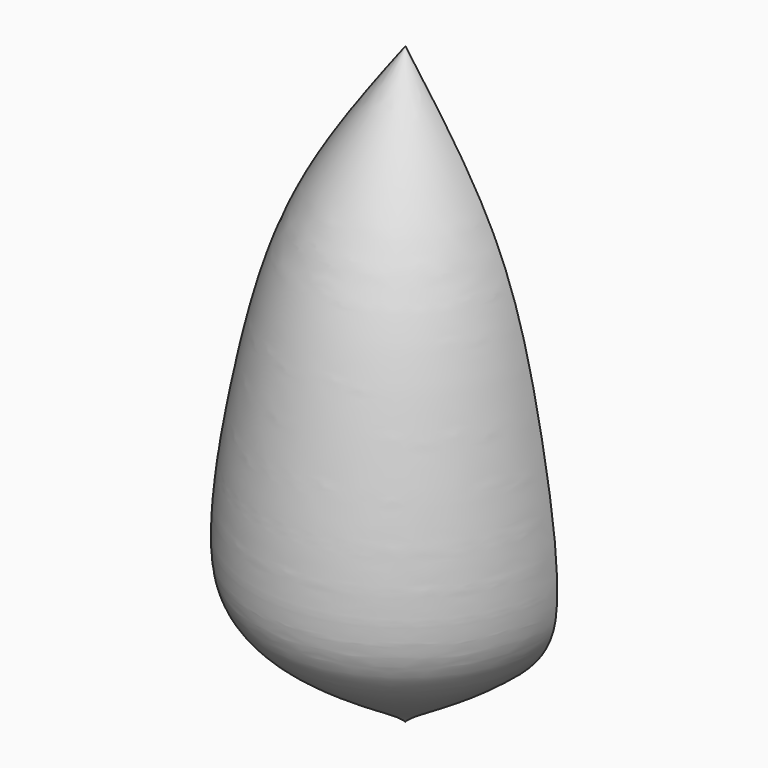
from build123d import *

# Parameters (mm, degrees)
F1_ANGLE = 180


with BuildPart() as f1:
    # F0 (on Front) → F1 (revolve)
    with BuildSketch(Plane.XZ):
        with BuildLine():
            add(Edge.make_bspline(
                [(0, 47.8158257902), (3.6998719165, 42.7656042858), (10.9862394878, 32.8199166978), (14.9558997263, 16.2693342986), (17.4586788217, -0.1621677551), (15.246306687, -9.0213843808), (0.6614476511, -16.6787647124), (0, -17.6592543721)],
                knots=[0, 0, 0, 0, 0.2144671147, 0.4223622507, 0.6216124415, 0.7756776791, 0.9739316286, 0.9739316286, 0.9739316286, 0.9739316286], degree=3))
            Line((0, 47.8158257902), (0, -17.6592543721))
        make_face()
    revolve(axis=Axis((0, 0, 15.078285709), (0, 0, -1)), revolution_arc=F1_ANGLE)

    # F2 (on Front) → F3 (revolve)
    with BuildSketch(Plane.XZ):
        with BuildLine():
            Line((0, -5.4989689961), (0, 15.3971128166))
            ThreePointArc((0, 15.3971128166), (-10.0357076556, 4.9490719102), (0, -5.4989689961))
        make_face()
    revolve(axis=Axis((0, 0, 4.9490719102), (0, 0, -1)))


solid = f1.part
